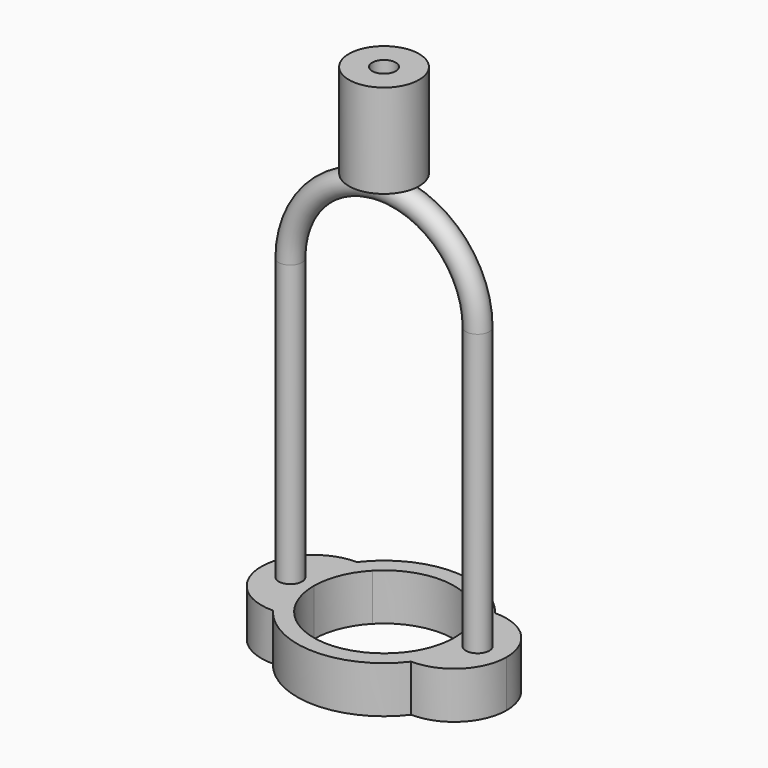
from build123d import *

# Parameters (mm, degrees)
F1_DEPTH      = 1
F3_R          = 0.25
F6_R          = 0.25
F7_DEPTH      = 1
F7_DEPTH_BACK = 0.25
F6_R_2        = 0.75
F8_DEPTH      = 2


with BuildPart() as f1:
    # F0 (on Top) → F1 (new body)
    with BuildSketch(Plane.XY):
        with BuildLine():
            ThreePointArc((-1.5, 0), (-1.3915219316, 0.5600595628), (-1.0817777148, 1.0391135529))
            ThreePointArc((-1.0817777148, 1.0391135529), (-1.2760507608, 1.0975033458), (-1.4776690405, 1.1198965059))
            ThreePointArc((-1.4776690405, 1.1198965059), (-1.7574719103, 0.590733833), (-1.8540965393, 0))
            Line((-1.8540965393, 0), (-1.5, 0))
        make_face()
        with BuildLine():
            ThreePointArc((-1.8540965393, 0), (-1.7574719103, 0.590733833), (-1.4776690405, 1.1198965059))
            ThreePointArc((-1.4776690405, 1.1198965059), (-2.6201191257, 0), (-1.4776690405, -1.1198965059))
            ThreePointArc((-1.4776690405, -1.1198965059), (-1.7574719103, -0.590733833), (-1.8540965393, 0))
        make_face()
        with BuildLine():
            ThreePointArc((-1.4776690405, -1.1198965059), (-1.2760507608, -1.0975033458), (-1.0817777148, -1.0391135529))
            ThreePointArc((-1.0817777148, -1.0391135529), (-1.3915219316, -0.5600595628), (-1.5, 0))
            Line((-1.5, 0), (-1.8540965393, 0))
            ThreePointArc((-1.8540965393, 0), (-1.7574719103, -0.590733833), (-1.4776690405, -1.1198965059))
        make_face()
        with BuildLine():
            ThreePointArc((1.4776690405, -1.1198965059), (1.2760507608, -1.0975033458), (1.0817777148, -1.0391135529))
            ThreePointArc((1.0817777148, -1.0391135529), (0, -1.5), (-1.0817777148, -1.0391135529))
            ThreePointArc((-1.0817777148, -1.0391135529), (-1.2760507608, -1.0975033458), (-1.4776690405, -1.1198965059))
            ThreePointArc((-1.4776690405, -1.1198965059), (0, -1.8540965393), (1.4776690405, -1.1198965059))
        make_face()
        with BuildLine():
            ThreePointArc((-1.0817777148, 1.0391135529), (0, 1.5), (1.0817777148, 1.0391135529))
            ThreePointArc((1.0817777148, 1.0391135529), (1.2760507608, 1.0975033458), (1.4776690405, 1.1198965059))
            ThreePointArc((1.4776690405, 1.1198965059), (0, 1.8540965393), (-1.4776690405, 1.1198965059))
            ThreePointArc((-1.4776690405, 1.1198965059), (-1.2760507608, 1.0975033458), (-1.0817777148, 1.0391135529))
        make_face()
        with BuildLine():
            ThreePointArc((2.6201191257, 0), (2.2841088958, 0.7999000533), (1.4776690405, 1.1198965059))
            ThreePointArc((1.4776690405, 1.1198965059), (1.7574719103, 0.590733833), (1.8540965393, 0))
            ThreePointArc((1.8540965393, 0), (1.7574719103, -0.590733833), (1.4776690405, -1.1198965059))
            ThreePointArc((1.4776690405, -1.1198965059), (2.2841088958, -0.7999000533), (2.6201191257, 0))
        make_face()
        with BuildLine():
            ThreePointArc((1.0817777148, 1.0391135529), (1.3915219316, 0.5600595628), (1.5, 0))
            ThreePointArc((1.5, 0), (1.3915219316, -0.5600595628), (1.0817777148, -1.0391135529))
            ThreePointArc((1.0817777148, -1.0391135529), (1.2760507608, -1.0975033458), (1.4776690405, -1.1198965059))
            ThreePointArc((1.4776690405, -1.1198965059), (1.7574719103, -0.590733833), (1.8540965393, 0))
            ThreePointArc((1.8540965393, 0), (1.7574719103, 0.590733833), (1.4776690405, 1.1198965059))
            ThreePointArc((1.4776690405, 1.1198965059), (1.2760507608, 1.0975033458), (1.0817777148, 1.0391135529))
        make_face()
    extrude(amount=F1_DEPTH)

    # F4: sweep along a path in F2
    with BuildLine(Plane.XZ) as f4_path:
        Line((2, 0), (2, 7))
        ThreePointArc((2, 7), (0, 9), (-2, 7))
        Line((-2, 7), (-2, 0))
    # F3 (on face) → F4 (sweep)
    with BuildSketch(Plane(origin=(0, 0, 0), x_dir=(1, 0, 0), z_dir=(0, 0, -1))):
        with Locations((2, 0)):
            Circle(F3_R)
    sweep(path=f4_path.line)

    # F6 (on offset) → F7 (join, two sides)
    with BuildSketch(Plane.XY.offset(9.25)) as f7_sk:
        Circle(F6_R)
    extrude(amount=F7_DEPTH)
    extrude(f7_sk.sketch, amount=-F7_DEPTH_BACK)

    # F6 (on offset) → F8 (join)
    with BuildSketch(Plane.XY.offset(9.25)):
        Circle(F6_R_2)
        Circle(F6_R, mode=Mode.SUBTRACT)
    extrude(amount=F8_DEPTH)


solid = f1.part
